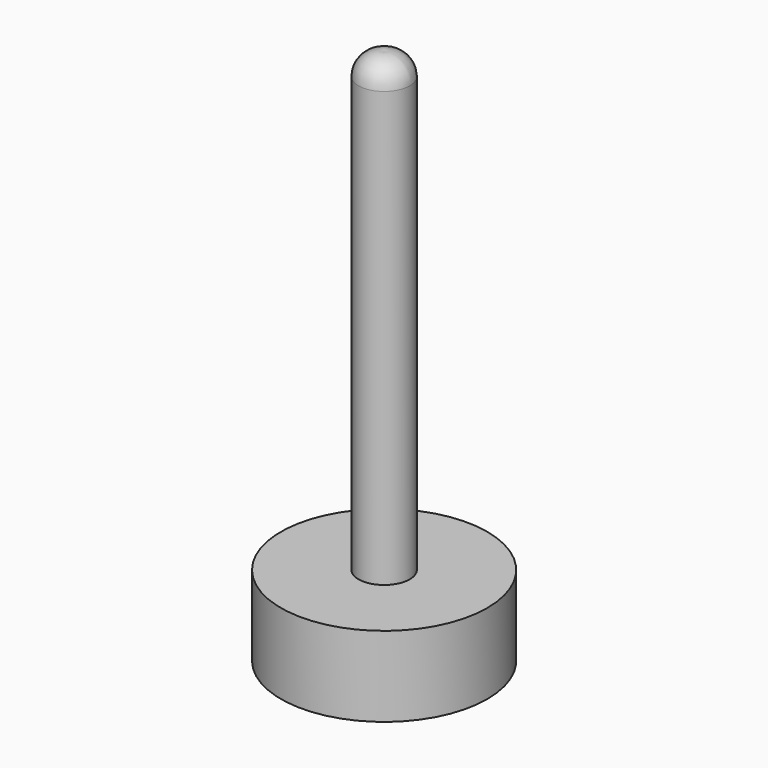
from build123d import *


with BuildPart() as f1:
    # F0 (on Front) → F1 (revolve)
    with BuildSketch(Plane.XZ):
        with BuildLine():
            ThreePointArc((4.152268, 63.866027), (2.895121, 66.602541), (0, 67.431517))
            Line((0, 67.431517), (0, -19.608533))
            Line((0, -19.608533), (16.736375, -19.608533))
            Line((16.736375, -19.608533), (16.736375, -6.604959))
            Line((16.736375, -6.604959), (4.152268, -6.604959))
            Line((4.152268, -6.604959), (4.152268, 63.866027))
        make_face()
    revolve(axis=Axis((0, 0, 23.911492), (0, 0, -1)))


solid = f1.part
